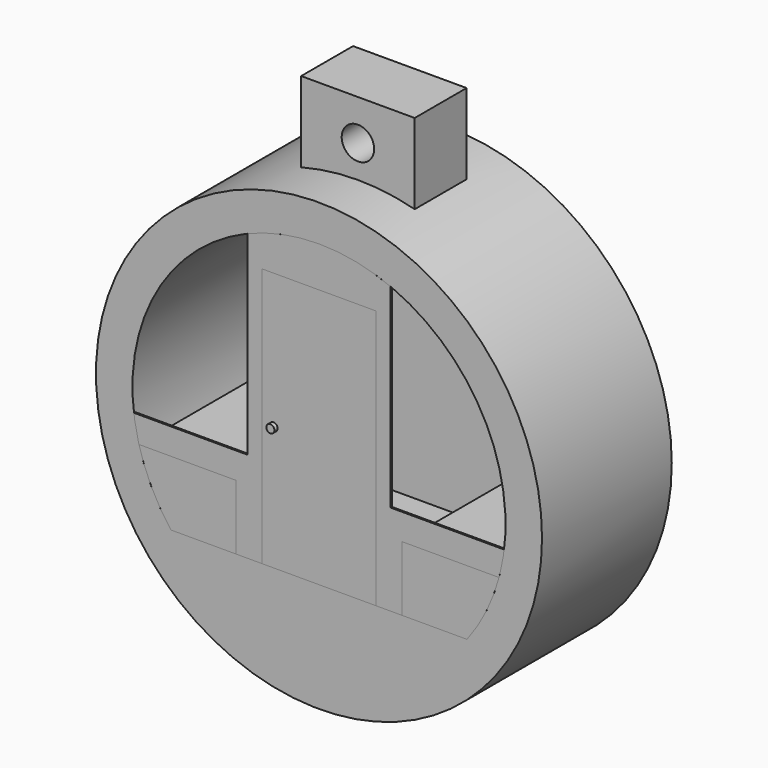
from build123d import *

# Parameters (mm, degrees)
F0_W      = 700
F0_H      = 500
F0_R      = 100
F1_DEPTH  = 200
F2_R      = 1375
F3_DEPTH  = 500
F5_DEPTH  = 500
F6_W      = 700
F6_H      = 1600
F7_DEPTH  = 100
F8_R      = 25
F9_DEPTH  = 25
F11_DEPTH = 10
F13_W     = 700
F13_H     = 1600
F14_DEPTH = 10


with BuildPart() as f1:
    # F0 (on Front) → F1 (new body, symmetric)
    with BuildSketch(Plane.XZ):
        with Locations((0, 3000)):
            Rectangle(F0_W, F0_H)
        with Locations((0, 3000)):
            Circle(F0_R, mode=Mode.SUBTRACT)
    extrude(amount=F1_DEPTH, both=True)


with BuildPart() as f3:
    # F2 (on Front) → F3 (new body, symmetric)
    with BuildSketch(Plane.XZ):
        with Locations((0, 1375)):
            Circle(F2_R)
        with BuildLine():
            ThreePointArc((-912.4143795447, 675), (-369.6102430423, 2463.9849715392), (1150, 1375))
            ThreePointArc((1150, 1375), (1088.9849715392, 1005.3897569577), (912.4143795447, 675))
            ThreePointArc((912.4143795447, 675), (0, 225), (-912.4143795447, 675))
        make_face(mode=Mode.SUBTRACT)
        with BuildLine():
            Line((912.4143795447, 675), (-912.4143795447, 675))
            ThreePointArc((-912.4143795447, 675), (0, 225), (912.4143795447, 675))
        make_face()
    extrude(amount=F3_DEPTH, both=True)


with BuildPart() as f5:
    # F4 (on Front) → F5 (new body, symmetric)
    with BuildSketch(Plane.XZ):
        with BuildLine():
            Line((512.4143795447, 1075), (512.4143795447, 675))
            Line((512.4143795447, 675), (912.4143795447, 675))
            ThreePointArc((912.4143795447, 675), (1030.8841707343, 865.3159542134), (1110.1801655587, 1075))
            Line((1110.1801655587, 1075), (512.4143795447, 1075))
        make_face()
    extrude(amount=F5_DEPTH, both=True)


with BuildPart() as f5b:
    # F4 (on Front) → F5, piece 2 (new body, symmetric)
    with BuildSketch(Plane.XZ):
        with BuildLine():
            Line((-912.4143795447, 675), (-512.4143795447, 675))
            Line((-512.4143795447, 675), (-512.4143795447, 1075))
            Line((-512.4143795447, 1075), (-1110.1801655587, 1075))
            ThreePointArc((-1110.1801655587, 1075), (-1030.8841707343, 865.3159542134), (-912.4143795447, 675))
        make_face()
    extrude(amount=F5_DEPTH, both=True)


with BuildPart() as f7:
    # F6 (on face) → F7 (new body)
    with BuildSketch(Plane.XZ.offset(500)):
        with Locations((0, 1475)):
            Rectangle(F6_W, F6_H)
    extrude(amount=-F7_DEPTH)


with BuildPart() as f9:
    # F8 (on face) → F9 (new body)
    with BuildSketch(Plane.XZ.offset(500)):
        with Locations((-280, 1440.528512001)):
            Circle(F8_R)
    extrude(amount=F9_DEPTH)


with BuildPart() as f11:
    # F10 (on face) → F11 (new body)
    with BuildSketch(Plane.XZ.offset(500)):
        with BuildLine():
            Line((-441.6664394146, 1236.8054229918), (-1141.6664394146, 1236.8054229918))
            ThreePointArc((-1141.6664394146, 1236.8054229918), (-1128.8261743111, 1155.337831682), (-1110.1801655587, 1075))
            Line((-1110.1801655587, 1075), (-512.4143795447, 1075))
            Line((-512.4143795447, 1075), (-512.4143795447, 675))
            Line((-512.4143795447, 675), (-350, 675))
            Line((-350, 675), (-350, 2275))
            Line((-350, 2275), (350, 2275))
            Line((350, 2275), (350, 675))
            Line((350, 675), (512.4143795447, 675))
            Line((512.4143795447, 675), (512.4143795447, 1075))
            Line((512.4143795447, 1075), (1110.1801655587, 1075))
            ThreePointArc((1110.1801655587, 1075), (1128.8261743111, 1155.337831682), (1141.6664394146, 1236.8054229918))
            Line((1141.6664394146, 1236.8054229918), (441.6664394146, 1236.8054229918))
            Line((441.6664394146, 1236.8054229918), (441.6664394146, 2436.8054229918))
            ThreePointArc((441.6664394146, 2436.8054229918), (0, 2525), (-441.6664394146, 2436.8054229918))
            Line((-441.6664394146, 2436.8054229918), (-441.6664394146, 1236.8054229918))
        make_face()
    extrude(amount=-F11_DEPTH)


with BuildPart() as f12_1:
    # F12: instance of F11
    add(f11.part.mirror(Plane.XZ))

    # F13 (on face) → F14 (join)
    with BuildSketch(Plane(origin=(0, 500, 0), x_dir=(-1, 0, 0), z_dir=(0, 1, 0))):
        with Locations((0, 1475)):
            Rectangle(F13_W, F13_H)
    extrude(amount=-F14_DEPTH)


with BuildPart() as f1_1:
    # F15: moved
    add(f1.part.moved(Location((0, 0, -50))))


with BuildPart() as f3_1:
    add(f3.part)

    # F16: cut F1
    add(f1_1.part, mode=Mode.SUBTRACT)


solid = Compound([f5.part, f5b.part, f7.part, f9.part, f11.part, f12_1.part, f1_1.part, f3_1.part])
